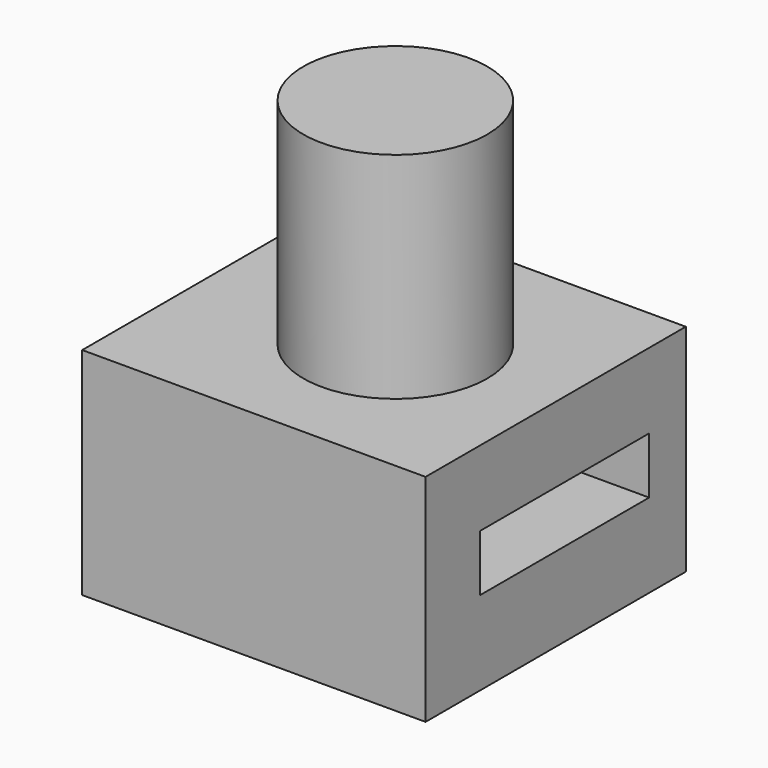
from build123d import *

# Parameters (mm, degrees)
F0_W     = 89.99192
F0_H     = 59.686664
F1_DEPTH = 94.996
F2_R     = 25.458482
F3_DEPTH = 59.436
F4_W     = 58.544096
F4_H     = 15.645336
F5_DEPTH = 116.078


with BuildPart() as f1:
    # F0 (on Right) → F1 (new body)
    with BuildSketch(Plane.YZ):
        with Locations((-44.99596, 29.843332)):
            Rectangle(F0_W, F0_H)
    extrude(amount=F1_DEPTH)

    # F2 (on face) → F3 (join)
    with BuildSketch(Plane.XY.offset(59.686664)):
        with Locations((51.198136, -45.706607)):
            Circle(F2_R)
    extrude(amount=F3_DEPTH)

    # F4 (on face) → F5 (cut)
    with BuildSketch(Plane(origin=(0, 0, 0), x_dir=(0, -1, 0), z_dir=(-1, 0, 0))):
        with Locations((41.940892, 31.036956)):
            Rectangle(F4_W, F4_H)
    extrude(amount=-F5_DEPTH, mode=Mode.SUBTRACT)


solid = f1.part
